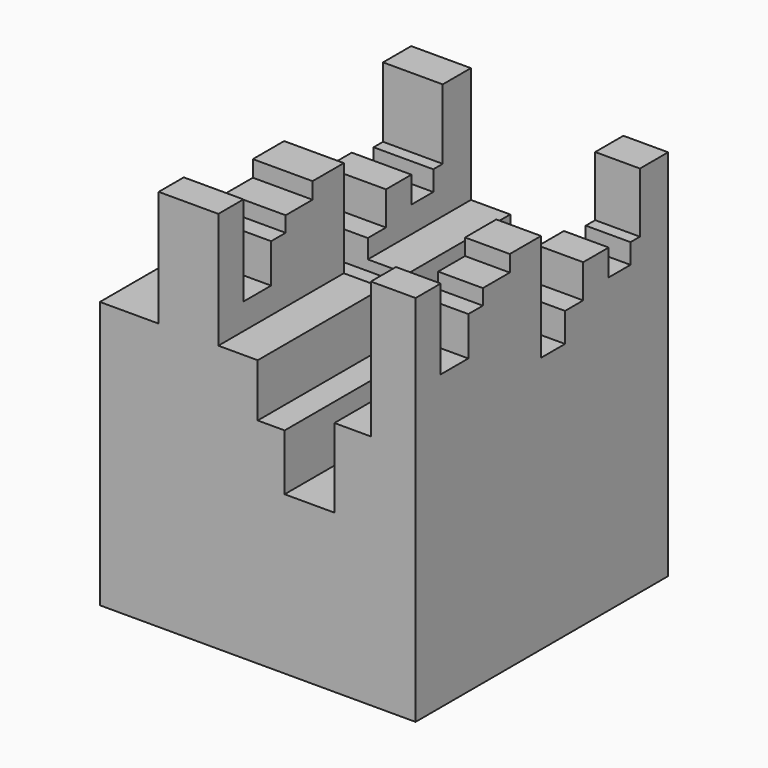
from build123d import *

# Parameters (mm, degrees)
F1_DEPTH = 4
F3_DEPTH = 25


with BuildPart() as f1:
    # F0 (on Front) → F1 (new body)
    with BuildSketch(Plane.XZ):
        Polygon((-2, 1.384284), (-2, -2), (2, -2), (2, 2), (2, 2.728454), (1.937245, 2.728454), (1.433182, 2.728454), (1.433182, 1), (0.971123, 1), (0.971123, 0), (0.341043, 0), (0.341043, 0.712198), (0, 0.712198), (0, 1.384284), (-0.499063, 1.384284), (-0.499063, 2), (-0.499063, 2.85447), (-1.255159, 2.85447), (-1.255159, 2), (-1.255159, 1.384284), align=None)
    extrude(amount=F1_DEPTH)

    # F2 (on face) → F3 (cut)
    with BuildSketch(Plane.YZ.offset(2)):
        Polygon((-3.6022, 2.864539), (-3.6022, 2.728454), (-3.6022, 1.71478), (-3.164511, 1.71478), (-3.164511, 2.21006), (-2.934149, 2.21006), (-2.934149, 2.405868), (-2.507978, 2.405868), (-2.507978, 2.613194), (-2.012699, 2.613194), (-2.012699, 1.254056), (-1.632601, 1.254056), (-1.632601, 1.622636), (-1.344648, 1.622636), (-1.344648, 2.048806), (-0.941514, 2.048806), (-0.941514, 1.71478), (-0.59597, 1.71478), (-0.59597, 1.968179), (-0.446235, 1.968179), (-0.446235, 2.728454), (-0.446235, 2.864539), (-0.692065, 2.864539), align=None)
    extrude(amount=-F3_DEPTH, mode=Mode.SUBTRACT)


solid = f1.part
